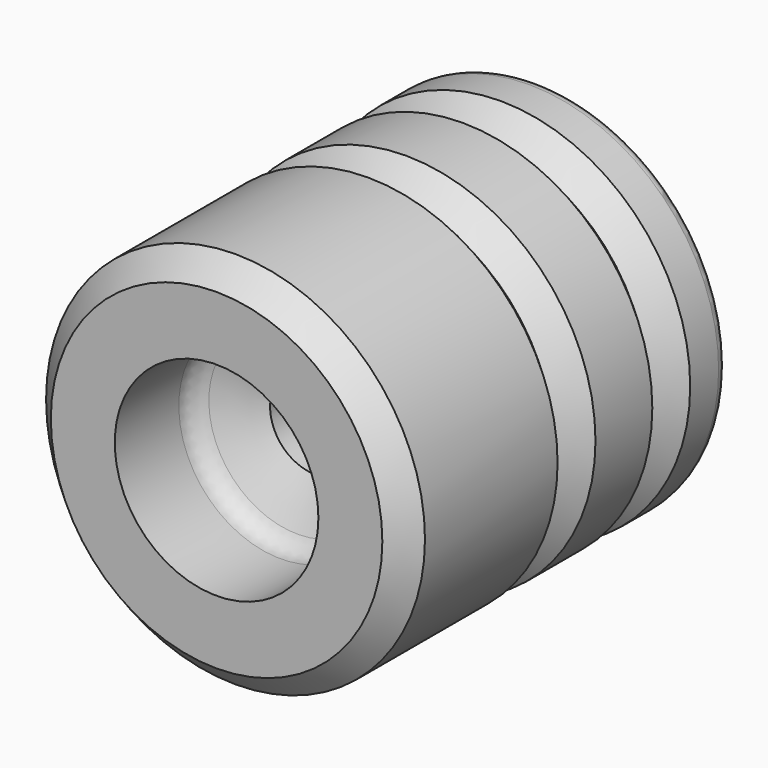
from build123d import *

# Parameters (mm, degrees)
F2_R    = 1
F3_R    = 0.5
F4_SIZE = 1


with BuildPart() as f1:
    # F0 (on Top) → F1 (revolve)
    with BuildSketch(Plane.XY):
        Polygon((1.9, 10.791767), (1.9, 5.2), (4.3, 4), (4.3, 0), (8, 0), (8, 8), (7, 9), (8, 10), (8, 13), (7, 14), (8, 15), (8, 17), (0, 17), (0, 10.791767), align=None)
    revolve(axis=Axis((0, 8.531952, 0), (0, 1, 0)))

    # F2
    f2_edges = [f1.edges().sort_by_distance(p)[0] for p in [
        (-4.3, 4, 0),
    ]]
    fillet(f2_edges, radius=F2_R)

    # F3
    f3_edges = [f1.edges().sort_by_distance(p)[0] for p in [
        (-8, 17, 0),
    ]]
    fillet(f3_edges, radius=F3_R)

    # F4
    f4_edges = [f1.edges().sort_by_distance(p)[0] for p in [
        (-8, 0, 0),
    ]]
    chamfer(f4_edges, length=F4_SIZE)


solid = f1.part
